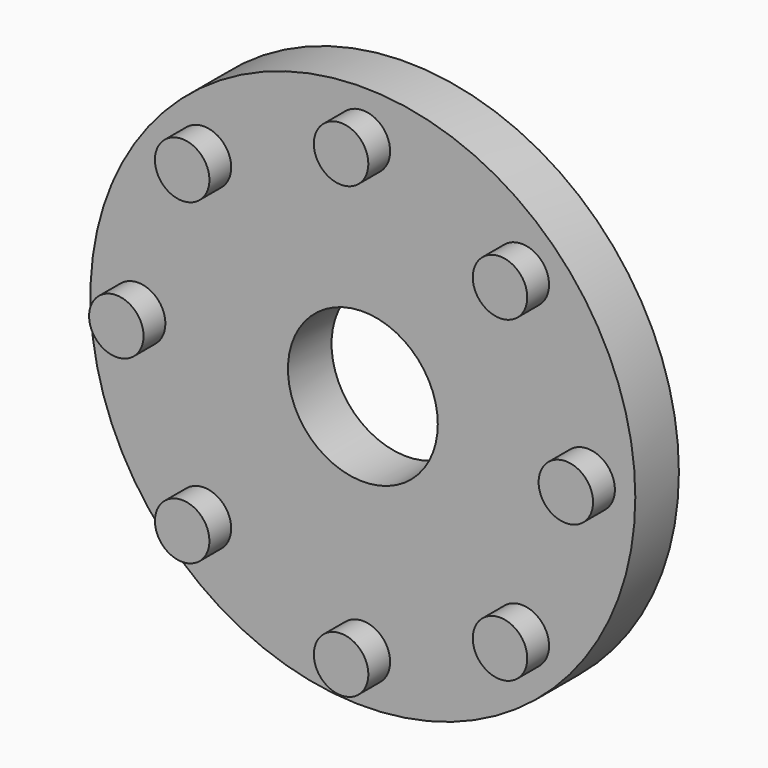
from build123d import *

# Parameters (mm, degrees)
F0_R     = 4
F0_R_2   = 1.1
F1_DEPTH = 0.8
F2_R     = 0.4
F3_DEPTH = 0.4
F4_COUNT = 8


with BuildPart() as f1:
    # F0 (on Front) → F1 (new body)
    with BuildSketch(Plane.XZ):
        Circle(F0_R)
        Circle(F0_R_2, mode=Mode.SUBTRACT)
    extrude(amount=F1_DEPTH)

    # F2 (on face) → F3 (join)
    with BuildSketch(Plane.XZ.offset(0.8)):
        with Locations((0, 3.3)):
            Circle(F2_R)
    extrude(amount=F3_DEPTH)

    # F4: F1 ×8 about axis
    f4_axis = Axis((0, -0.8, 0), (0, -1, 0))


with BuildPart() as f1_1:
    add(f1.part)
    for i in range(1, F4_COUNT):
        add(f1.part.rotate(f4_axis, i * 360 / F4_COUNT))


solid = f1_1.part
